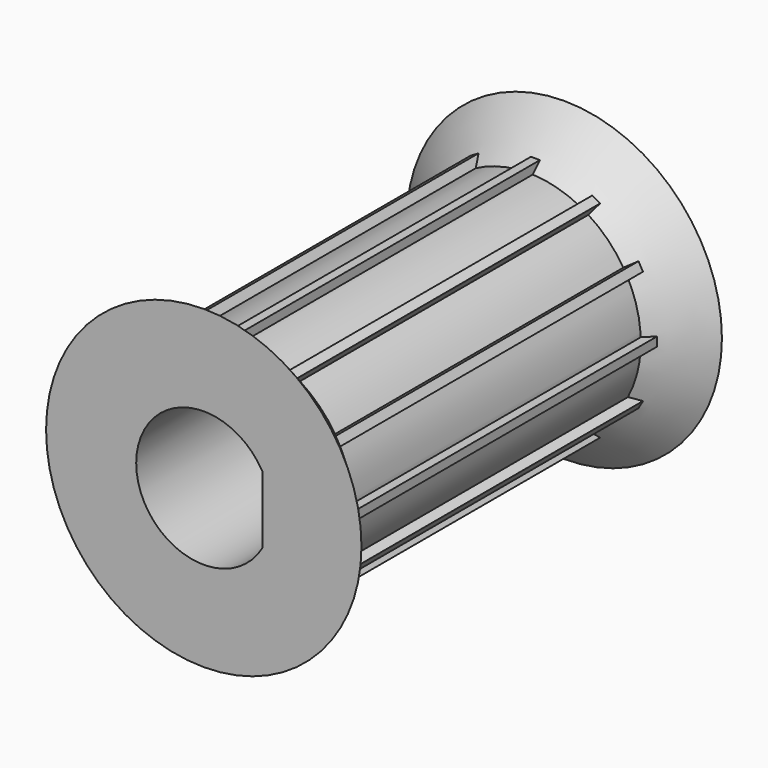
from build123d import *

# Parameters (mm, degrees)
F1_DEPTH = 10


with BuildPart() as f1:
    # F0 (on Front) → F1 (new body)
    with BuildSketch(Plane.XZ):
        with BuildLine():
            ThreePointArc((-0.1, 2.497999), (0, 2.5), (0.1, 2.497999))
            Line((0.1, 2.497999), (0.1, 2.7))
            Line((0.1, 2.7), (-0.1, 2.7))
            Line((-0.1, 2.7), (-0.1, 2.497999))
        make_face()
        with BuildLine():
            ThreePointArc((-1.335602, 2.113331), (-1.25, 2.165064), (-1.162397, 2.213331))
            Line((-1.162397, 2.213331), (-1.263397, 2.388269))
            Line((-1.263397, 2.388269), (-1.436603, 2.288269))
            Line((-1.436603, 2.288269), (-1.335602, 2.113331))
        make_face()
        with BuildLine():
            ThreePointArc((-2.213331, 1.162397), (-2.165064, 1.25), (-2.113331, 1.335602))
            Line((-2.113331, 1.335602), (-2.288269, 1.436603))
            Line((-2.288269, 1.436603), (-2.388269, 1.263397))
            Line((-2.388269, 1.263397), (-2.213331, 1.162397))
        make_face()
        with BuildLine():
            ThreePointArc((-2.497999, -0.1), (-2.5, 0), (-2.497999, 0.1))
            Line((-2.497999, 0.1), (-2.7, 0.1))
            Line((-2.7, 0.1), (-2.7, -0.1))
            Line((-2.7, -0.1), (-2.497999, -0.1))
        make_face()
        with BuildLine():
            Line((-2.288269, -1.436603), (-2.113331, -1.335602))
            ThreePointArc((-2.113331, -1.335602), (-2.165064, -1.25), (-2.213331, -1.162397))
            Line((-2.213331, -1.162397), (-2.388269, -1.263397))
            Line((-2.388269, -1.263397), (-2.288269, -1.436603))
        make_face()
        with BuildLine():
            Line((-1.263397, -2.388269), (-1.162397, -2.213331))
            ThreePointArc((-1.162397, -2.213331), (-1.25, -2.165064), (-1.335602, -2.113331))
            Line((-1.335602, -2.113331), (-1.436603, -2.288269))
            Line((-1.436603, -2.288269), (-1.263397, -2.388269))
        make_face()
        with BuildLine():
            Line((0.1, -2.7), (0.1, -2.497999))
            ThreePointArc((0.1, -2.497999), (0, -2.5), (-0.1, -2.497999))
            Line((-0.1, -2.497999), (-0.1, -2.7))
            Line((-0.1, -2.7), (0.1, -2.7))
        make_face()
        with BuildLine():
            Line((1.436603, -2.288269), (1.335602, -2.113331))
            ThreePointArc((1.335602, -2.113331), (1.25, -2.165064), (1.162397, -2.213331))
            Line((1.162397, -2.213331), (1.263397, -2.388269))
            Line((1.263397, -2.388269), (1.436603, -2.288269))
        make_face()
        with BuildLine():
            Line((2.388269, -1.263397), (2.213331, -1.162397))
            ThreePointArc((2.213331, -1.162397), (2.165064, -1.25), (2.113331, -1.335602))
            Line((2.113331, -1.335602), (2.288269, -1.436603))
            Line((2.288269, -1.436603), (2.388269, -1.263397))
        make_face()
        with BuildLine():
            ThreePointArc((2.497999, 0.1), (2.4995, 0.05001), (2.5, 0))
            ThreePointArc((2.5, 0), (2.4995, -0.05001), (2.497999, -0.1))
            Line((2.497999, -0.1), (2.7, -0.1))
            Line((2.7, -0.1), (2.7, 0.1))
            Line((2.7, 0.1), (2.497999, 0.1))
        make_face()
        with BuildLine():
            ThreePointArc((2.113331, 1.335602), (2.165064, 1.25), (2.213331, 1.162397))
            Line((2.213331, 1.162397), (2.388269, 1.263397))
            Line((2.388269, 1.263397), (2.288269, 1.436603))
            Line((2.288269, 1.436603), (2.113331, 1.335602))
        make_face()
        with BuildLine():
            ThreePointArc((1.162397, 2.213331), (1.25, 2.165064), (1.335602, 2.113331))
            Line((1.335602, 2.113331), (1.436603, 2.288269))
            Line((1.436603, 2.288269), (1.263397, 2.388269))
            Line((1.263397, 2.388269), (1.162397, 2.213331))
        make_face()
        with BuildLine():
            ThreePointArc((2.497999, -0.1), (2.4995, -0.05001), (2.5, 0))
            ThreePointArc((2.5, 0), (2.4995, 0.05001), (2.497999, 0.1))
            ThreePointArc((2.497999, 0.1), (2.414815, 0.647048), (2.213331, 1.162397))
            ThreePointArc((2.213331, 1.162397), (2.165064, 1.25), (2.113331, 1.335602))
            ThreePointArc((2.113331, 1.335602), (1.767767, 1.767767), (1.335602, 2.113331))
            ThreePointArc((1.335602, 2.113331), (1.25, 2.165064), (1.162397, 2.213331))
            ThreePointArc((1.162397, 2.213331), (0.647048, 2.414815), (0.1, 2.497999))
            ThreePointArc((0.1, 2.497999), (0, 2.5), (-0.1, 2.497999))
            ThreePointArc((-0.1, 2.497999), (-0.647048, 2.414815), (-1.162397, 2.213331))
            ThreePointArc((-1.162397, 2.213331), (-1.25, 2.165064), (-1.335602, 2.113331))
            ThreePointArc((-1.335602, 2.113331), (-1.767767, 1.767767), (-2.113331, 1.335602))
            ThreePointArc((-2.113331, 1.335602), (-2.165064, 1.25), (-2.213331, 1.162397))
            ThreePointArc((-2.213331, 1.162397), (-2.414815, 0.647048), (-2.497999, 0.1))
            ThreePointArc((-2.497999, 0.1), (-2.5, 0), (-2.497999, -0.1))
            ThreePointArc((-2.497999, -0.1), (-2.414815, -0.647048), (-2.213331, -1.162397))
            ThreePointArc((-2.213331, -1.162397), (-2.165064, -1.25), (-2.113331, -1.335602))
            ThreePointArc((-2.113331, -1.335602), (-1.767767, -1.767767), (-1.335602, -2.113331))
            ThreePointArc((-1.335602, -2.113331), (-1.25, -2.165064), (-1.162397, -2.213331))
            ThreePointArc((-1.162397, -2.213331), (-0.647048, -2.414815), (-0.1, -2.497999))
            ThreePointArc((-0.1, -2.497999), (0, -2.5), (0.1, -2.497999))
            ThreePointArc((0.1, -2.497999), (0.647048, -2.414815), (1.162397, -2.213331))
            ThreePointArc((1.162397, -2.213331), (1.25, -2.165064), (1.335602, -2.113331))
            ThreePointArc((1.335602, -2.113331), (1.767767, -1.767767), (2.113331, -1.335602))
            ThreePointArc((2.113331, -1.335602), (2.165064, -1.25), (2.213331, -1.162397))
            ThreePointArc((2.213331, -1.162397), (2.414815, -0.647048), (2.497999, -0.1))
        make_face()
        with BuildLine():
            ThreePointArc((1.3, -0.748331), (-1.5, 0), (1.3, 0.748331))
            Line((1.3, 0.748331), (1.3, -0.748331))
        make_face(mode=Mode.SUBTRACT)
    extrude(amount=F1_DEPTH)

    # F2 (on Right) → F3 (revolve)
    with BuildSketch(Plane.YZ):
        Polygon((-9, 2.5), (-10, 3.5), (-10, 2.5), align=None)
        Polygon((-1, 2.5), (0, 2.5), (0, 3.5), align=None)
    revolve(axis=Axis((0, -5.253473, 0), (0, 1, 0)))


solid = f1.part
